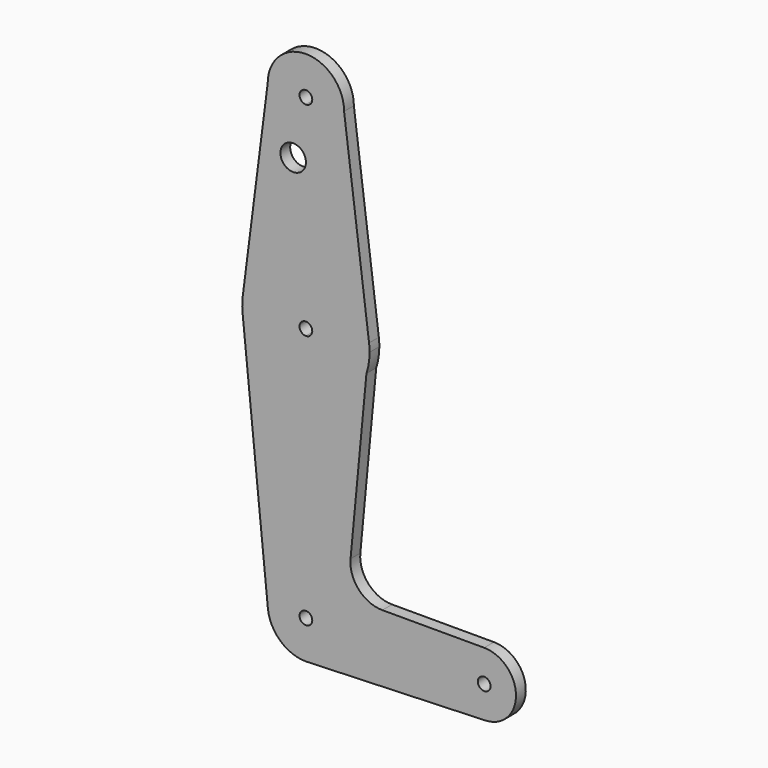
from build123d import *

# Parameters (mm, degrees)
F0_R     = 3.175
F1_DEPTH = 3.048


with BuildPart() as f1:
    # F0 (on Front) → F1 (new body)
    with BuildSketch(Plane.XZ):
        with BuildLine():
            ThreePointArc((1.5875, 0), (-1.1225320151, -1.1225320151), (0, 1.5875))
            Line((0, 1.5875), (0, 9.525))
            ThreePointArc((0, 9.525), (-7.063929059, 6.3895642457), (-9.4772553384, -0.9525))
            ThreePointArc((-9.4772553384, -0.9525), (-6.3895642457, -7.063929059), (0, -9.525))
            Line((0, -9.525), (0.6773435479, -9.500885786))
            ThreePointArc((0.6773435479, -9.500885786), (6.9705567315, -6.4912990883), (9.525, 0))
            Line((9.525, 0), (1.5875, 0))
        make_face()
        with BuildLine():
            ThreePointArc((-9.4772553384, -0.9525), (-7.063929059, 6.3895642457), (0, 9.525))
            Line((0, 9.525), (0, 47.625))
            ThreePointArc((0, 47.625), (-10.6492737428, 51.7267849017), (-15.7954255641, 61.9125))
            Line((-15.7954255641, 61.9125), (-9.4772553384, -0.9525))
        make_face()
        with BuildLine():
            Line((0, 47.625), (0, 9.525))
            ThreePointArc((0, 9.525), (6.7351920908, 6.7351920908), (9.525, 0))
            Line((9.525, 0), (36.5125, 0))
            ThreePointArc((36.5125, 0), (38.8373399243, 5.6126600757), (44.45, 7.9375))
            Line((44.45, 7.9375), (19.0516679685, 7.9375))
            ThreePointArc((19.0516679685, 7.9375), (13.1719464369, 10.5365735064), (11.1366133377, 16.6344196472))
            Line((11.1366133377, 16.6344196472), (15.0940259351, 58.5820729906))
            ThreePointArc((15.0940259351, 58.5820729906), (9.3258654753, 50.6530603591), (0, 47.625))
        make_face()
        with BuildLine():
            Line((36.5125, 0), (9.525, 0))
            ThreePointArc((9.525, 0), (6.9705567315, -6.4912990883), (0.6773435479, -9.500885786))
            Line((0.6773435479, -9.500885786), (44.7324052746, -7.9324746146))
            ThreePointArc((44.7324052746, -7.9324746146), (38.9380895153, -5.7116327839), (36.5125, 0))
        make_face()
        with BuildLine():
            ThreePointArc((-15.7954255641, 61.9125), (-10.6492737428, 51.7267849017), (0, 47.625))
            Line((0, 47.625), (0, 61.9125))
            ThreePointArc((0, 61.9125), (-1.5875, 63.5), (0, 65.0875))
            Line((0, 65.0875), (0, 79.375))
            ThreePointArc((0, 79.375), (-10.4912828548, 75.4142187767), (-15.7474569047, 65.5082893304))
            ThreePointArc((-15.7474569047, 65.5082893304), (-15.8735876171, 63.7117573215), (-15.7954255641, 61.9125))
        make_face()
        with BuildLine():
            Line((0, 61.9125), (0, 47.625))
            ThreePointArc((0, 47.625), (9.3258654753, 50.6530603591), (15.0940259351, 58.5820729906))
            Line((15.0940259351, 58.5820729906), (15.7474569047, 65.5082893304))
            ThreePointArc((15.7474569047, 65.5082893304), (10.4912828548, 75.4142187767), (0, 79.375))
            Line((0, 79.375), (0, 65.0875))
            ThreePointArc((0, 65.0875), (1.1225320151, 64.6225320151), (1.5875, 63.5))
            ThreePointArc((1.5875, 63.5), (1.1225320151, 62.3774679849), (0, 61.9125))
        make_face()
        with BuildLine():
            ThreePointArc((44.45, 7.9375), (38.8373399243, 5.6126600757), (36.5125, 0))
            ThreePointArc((36.5125, 0), (38.9380895153, -5.7116327839), (44.7324052746, -7.9324746146))
            ThreePointArc((44.7324052746, -7.9324746146), (50.1616327839, -5.5119104847), (52.3875, 0))
            ThreePointArc((52.3875, 0), (50.0626600757, 5.6126600757), (44.45, 7.9375))
        make_face()
        with BuildLine():
            ThreePointArc((46.0375, 0), (44.45, -1.5875), (42.8625, 0))
            ThreePointArc((42.8625, 0), (44.45, 1.5875), (46.0375, 0))
        make_face(mode=Mode.SUBTRACT)
        with BuildLine():
            ThreePointArc((0, -9.525), (0.3388863295, -9.5189695375), (0.6773435479, -9.500885786))
            Line((0.6773435479, -9.500885786), (0, -9.525))
        make_face()
        with BuildLine():
            Line((15.7474569047, 65.5082893304), (15.0940259351, 58.5820729906))
            ThreePointArc((15.0940259351, 58.5820729906), (15.6785408556, 61.0102245804), (15.875, 63.5))
            ThreePointArc((15.875, 63.5), (15.8430821396, 64.5061676396), (15.7474569047, 65.5082893304))
        make_face()
        with BuildLine():
            Line((-9.525, 114.3), (-15.7474569047, 65.5082893304))
            ThreePointArc((-15.7474569047, 65.5082893304), (-10.4912828548, 75.4142187767), (0, 79.375))
            Line((0, 79.375), (0, 100.0252))
            Line((0, 100.0252), (0, 104.775))
            ThreePointArc((0, 104.775), (-6.7351920908, 107.5648079092), (-9.525, 114.3))
        make_face()
        with Locations((-3.175, 100.0252)):
            Circle(F0_R, mode=Mode.SUBTRACT)
        with BuildLine():
            ThreePointArc((0, 79.375), (10.4912828548, 75.4142187767), (15.7474569047, 65.5082893304))
            Line((15.7474569047, 65.5082893304), (9.525, 114.3))
            ThreePointArc((9.525, 114.3), (6.7351920908, 107.5648079092), (0, 104.775))
            Line((0, 104.775), (0, 100.0252))
            Line((0, 100.0252), (0, 79.375))
        make_face()
        with BuildLine():
            ThreePointArc((9.525, 114.3), (0, 123.825), (-9.525, 114.3))
            ThreePointArc((-9.525, 114.3), (-6.7351920908, 107.5648079092), (0, 104.775))
            ThreePointArc((0, 104.775), (6.7351920908, 107.5648079092), (9.525, 114.3))
        make_face()
        with BuildLine():
            ThreePointArc((1.5875, 114.3), (1.1225320151, 113.1774679849), (0, 112.7125))
            ThreePointArc((0, 112.7125), (-1.1225320151, 115.4225320151), (1.5875, 114.3))
        make_face(mode=Mode.SUBTRACT)
        with BuildLine():
            Line((0, 9.525), (0, 1.5875))
            ThreePointArc((0, 1.5875), (1.1225320151, 1.1225320151), (1.5875, 0))
            Line((1.5875, 0), (9.525, 0))
            ThreePointArc((9.525, 0), (6.7351920908, 6.7351920908), (0, 9.525))
        make_face()
    extrude(amount=F1_DEPTH)


solid = f1.part
